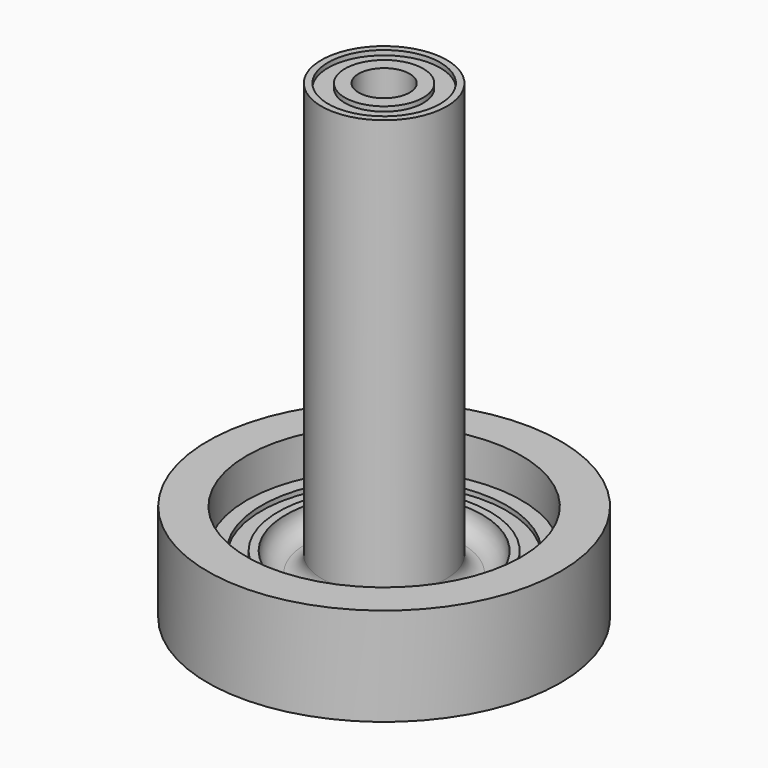
from build123d import *


with BuildPart() as f1:
    # F0 (on Front) → F1 (revolve)
    with BuildSketch(Plane.XZ):
        with BuildLine():
            Line((3.25, 50), (3.25, -10))
            Line((3.25, -10), (17.5, -10))
            Line((17.5, -10), (22.5, -10))
            Line((22.5, -10), (22.5, 2.5))
            Line((22.5, 2.5), (17.5, 2.5))
            Line((17.5, 2.5), (17.5, -2.5))
            Line((17.5, -2.5), (15.65, -2.5))
            Line((15.65, -2.5), (15.65, -3.1))
            Line((15.65, -3.1), (13.5, -3.1))
            Line((13.5, -3.1), (13.5, -2.5))
            Line((13.5, -2.5), (12.5, -2.5))
            ThreePointArc((12.5, -2.5), (11.767767, -4.267767), (10, -5))
            ThreePointArc((10, -5), (8.585786, -4.414214), (8, -3))
            Line((8, -3), (8, 50))
            Line((8, 50), (7.15, 50))
            Line((7.15, 50), (7.15, 49.4))
            Line((7.15, 49.4), (5, 49.4))
            Line((5, 49.4), (5, 50))
            Line((5, 50), (3.25, 50))
        make_face()
    revolve(axis=Axis((0, 0, 50), (0, 0, 1)))


solid = f1.part
